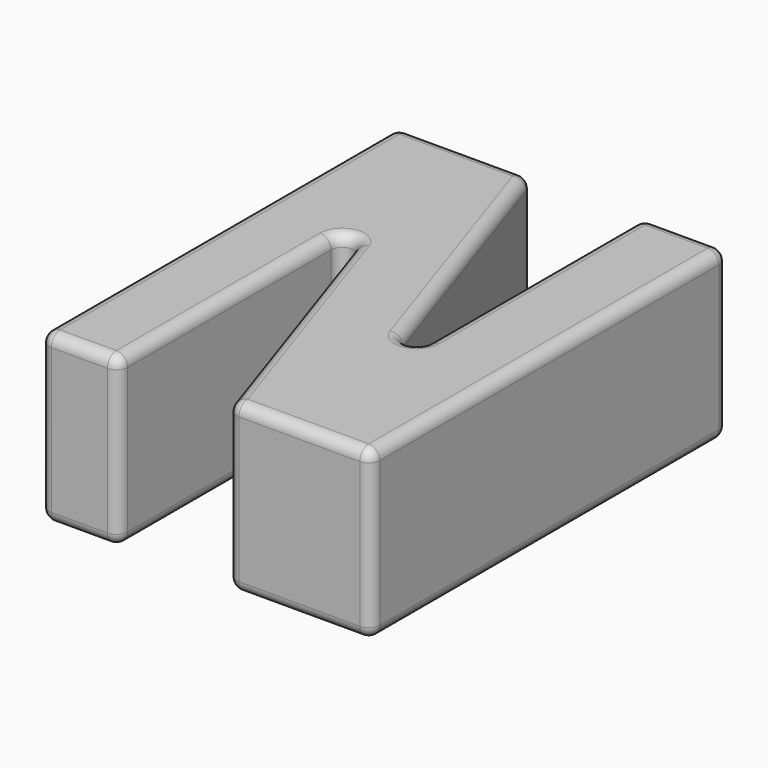
from build123d import *

# Parameters (mm, degrees)
F1_DEPTH = 15
F2_R     = 1


with BuildPart() as f1:
    # F0 (on Top) → F1 (new body)
    with BuildSketch(Plane.XY):
        Polygon((-40.153805, 40), (-40.153805, 0), (-33.126801, 0), (-33.126801, 29.933507), (-23.060559, 0), (-10.49746, 0), (-10.49746, 40), (-18.119976, 40), (-18.119976, 9.805305), (-28.274053, 40), align=None)
    extrude(amount=F1_DEPTH)

    # F2
    f2_edges = [f1.edges().sort_by_distance(p)[0] for p in [
        (-23.197014, 24.902652, 15),
        (-34.213929, 40, 15),
        (-40.153805, 20, 15),
        (-36.640303, 0, 15),
        (-33.126801, 14.966753, 15),
        (-28.09368, 14.966753, 15),
        (-16.779009, 0, 15),
        (-10.49746, 20, 15),
        (-14.308718, 40, 15),
        (-18.119976, 24.902652, 15),
        (-23.197014, 24.902652, 0),
        (-34.213929, 40, 0),
        (-40.153805, 20, 0),
        (-36.640303, 0, 0),
        (-33.126801, 14.966753, 0),
        (-28.09368, 14.966753, 0),
        (-16.779009, 0, 0),
        (-10.49746, 20, 0),
        (-14.308718, 40, 0),
        (-18.119976, 24.902652, 0),
        (-23.060559, 0, 7.5),
        (-10.49746, 0, 7.5),
        (-40.153805, 0, 7.5),
        (-33.126801, 0, 7.5),
        (-28.274053, 40, 7.5),
        (-40.153805, 40, 7.5),
        (-10.49746, 40, 7.5),
        (-18.119976, 40, 7.5),
        (-33.126801, 29.933507, 7.5),
        (-18.119976, 9.805305, 7.5),
    ]]
    fillet(f2_edges, radius=F2_R)


solid = f1.part
